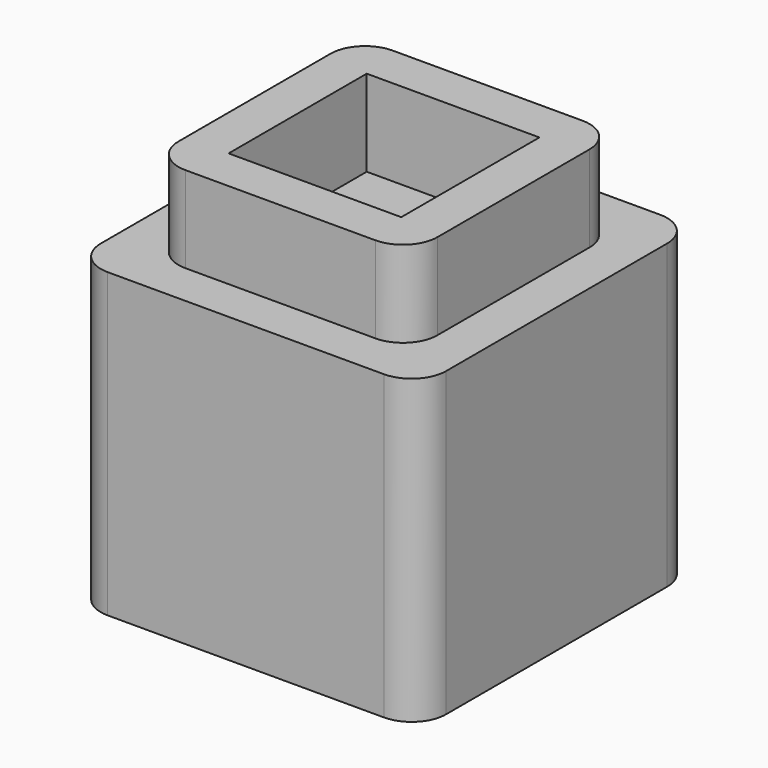
from build123d import *

# Parameters (mm, degrees)
F0_W     = 25.4
F0_H     = 25.4
F1_DEPTH = 22.225
F2_W     = 19.05
F2_H     = 19.05
F3_DEPTH = 15.875
F4_W     = 19.05
F4_H     = 19.05
F4_W_2   = 12.7
F4_H_2   = 12.7
F5_DEPTH = 6.35
F6_R     = 2.54


with BuildPart() as f1:
    # F0 (on Top) → F1 (new body)
    with BuildSketch(Plane.XY):
        with Locations((12.7, -12.7)):
            Rectangle(F0_W, F0_H)
    extrude(amount=F1_DEPTH)

    # F2 (on face) → F3 (cut)
    with BuildSketch(Plane(origin=(0, 0, 0), x_dir=(1, 0, 0), z_dir=(0, 0, -1))):
        with Locations((12.7, 12.7)):
            Rectangle(F2_W, F2_H)
    extrude(amount=-F3_DEPTH, mode=Mode.SUBTRACT)

    # F4 (on face) → F5 (join)
    with BuildSketch(Plane.XY.offset(22.225)):
        with Locations((12.7, -12.7)):
            Rectangle(F4_W, F4_H)
        with Locations((12.7, -12.7)):
            Rectangle(F4_W_2, F4_H_2, mode=Mode.SUBTRACT)
    extrude(amount=F5_DEPTH)

    # F6
    f6_edges = [f1.edges().sort_by_distance(p)[0] for p in [
        (0, 0, 11.1125),
        (0, -25.4, 11.1125),
        (25.4, 0, 11.1125),
        (3.175, -3.175, 25.4),
        (3.175, -22.225, 25.4),
        (22.225, -3.175, 25.4),
        (22.225, -22.225, 25.4),
        (25.4, -25.4, 11.1125),
    ]]
    fillet(f6_edges, radius=F6_R)


solid = f1.part
